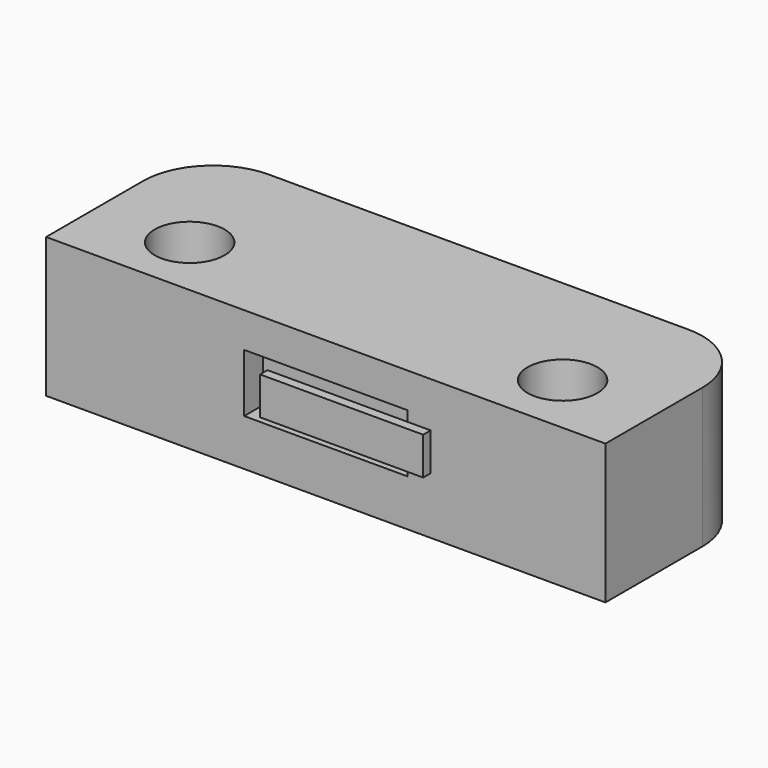
from build123d import *

# Parameters (mm, degrees)
SKETCH003_R     = 1.5
PAD002_DEPTH    = 6
SKETCH004_W     = 7
SKETCH004_H     = 2.5
POCKET001_DEPTH = 1
SKETCH005_W     = 7
SKETCH005_H     = 1.62
PAD003_DEPTH    = 0.4


with BuildPart() as part:
    # Sketch003 → Pad002 (new body)
    with BuildSketch(Plane.XY):
        with BuildLine():
            Line((-12, 3.8), (12, 3.8))
            Line((12, 3.8), (12, 9))
            ThreePointArc((12, 9), (11.12132, 11.12132), (9, 12))
            Line((9, 12), (-9, 12))
            ThreePointArc((-9, 12), (-11.12132, 11.12132), (-12, 9))
            Line((-12, 9), (-12, 3.8))
        make_face()
        with Locations((-8, 6.5)):
            Circle(SKETCH003_R, mode=Mode.SUBTRACT)
        with Locations((8, 6.5)):
            Circle(SKETCH003_R, mode=Mode.SUBTRACT)
    extrude(amount=PAD002_DEPTH)

    # Sketch004 (on Face1 of Pad002) → Pocket001 (cut)
    with BuildSketch(Plane.XZ.offset(-3.8)):
        with Locations((0, 3.25)):
            Rectangle(SKETCH004_W, SKETCH004_H)
    extrude(amount=-POCKET001_DEPTH, mode=Mode.SUBTRACT)

    # Sketch005 (on Face1 of Pocket001) → Pad003 (join)
    with BuildSketch(Plane.XZ.offset(-3.8)):
        with Locations((1, 3.25)):
            Rectangle(SKETCH005_W, SKETCH005_H)
    extrude(amount=PAD003_DEPTH)


solid = part.part
